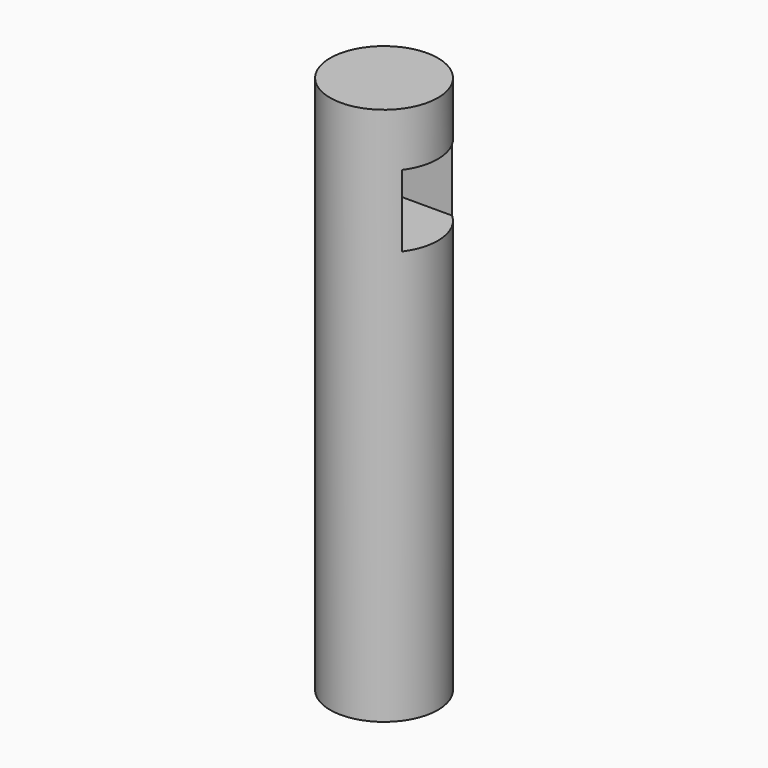
from build123d import *

# Parameters (mm, degrees)
F0_R     = 15
F1_DEPTH = 150
F2_W     = 20
F2_H     = 20
F3_DEPTH = 25
F4_DEPTH = 25


with BuildPart() as f1:
    # F0 (on Top) → F1 (new body)
    with BuildSketch(Plane.XY):
        Circle(F0_R)
    extrude(amount=F1_DEPTH)

    # F2 (on Right) → F3 (cut)
    with BuildSketch(Plane.YZ):
        with Locations((1.143422, 125)):
            Rectangle(F2_W, F2_H)
    extrude(amount=-F3_DEPTH, mode=Mode.SUBTRACT)

    # F2 (on Right) → F4 (cut)
    with BuildSketch(Plane.YZ):
        with Locations((1.143422, 125)):
            Rectangle(F2_W, F2_H)
    extrude(amount=F4_DEPTH, mode=Mode.SUBTRACT)


solid = f1.part
